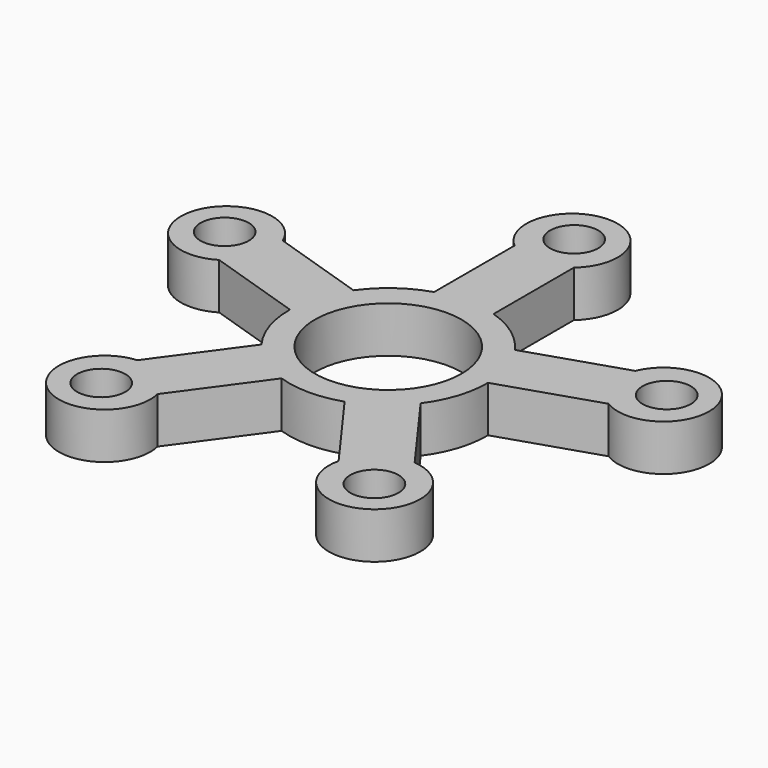
from build123d import *

# Parameters (mm, degrees)
F2_DEPTH = 7
F0_R     = 11.1
F3_DEPTH = 7.001
F4_R     = 3.652579
F5_DEPTH = 7.001


with BuildPart() as f2:
    # F1 (on Top) → F2 (new body)
    with BuildSketch(Plane.XY):
        with BuildLine():
            Line((-4.5, 29.528995), (-4.5, 14.309088))
            ThreePointArc((-4.5, 14.309088), (-8.816779, 12.135255), (-12.218175, 8.701506))
            Line((-12.218175, 8.701506), (-26.693166, 13.404716))
            ThreePointArc((-26.693166, 13.404716), (-39.661387, 12.886766), (-29.474319, 4.845207))
            Line((-29.474319, 4.845207), (-14.999328, 0.141997))
            ThreePointArc((-14.999328, 0.141997), (-14.265848, -4.635255), (-12.051247, -8.931262))
            Line((-12.051247, -8.931262), (-20.997284, -21.244425))
            ThreePointArc((-20.997284, -21.244425), (-24.512085, -33.737991), (-13.716131, -26.534492))
            Line((-13.716131, -26.534492), (-4.770094, -14.221329))
            ThreePointArc((-4.770094, -14.221329), (0, -15), (4.770094, -14.221329))
            Line((4.770094, -14.221329), (13.716131, -26.534492))
            ThreePointArc((13.716131, -26.534492), (24.512085, -33.737991), (20.997284, -21.244425))
            Line((20.997284, -21.244425), (12.051247, -8.931262))
            ThreePointArc((12.051247, -8.931262), (14.265848, -4.635255), (14.999328, 0.141997))
            Line((14.999328, 0.141997), (29.474319, 4.845207))
            ThreePointArc((29.474319, 4.845207), (39.661387, 12.886766), (26.693166, 13.404716))
            Line((26.693166, 13.404716), (12.218175, 8.701506))
            ThreePointArc((12.218175, 8.701506), (8.816779, 12.135255), (4.5, 14.309088))
            Line((4.5, 14.309088), (4.5, 29.528995))
            ThreePointArc((4.5, 29.528995), (0, 41.70245), (-4.5, 29.528995))
        make_face()
    extrude(amount=F2_DEPTH)

    # F0 (on Top) → F3 (cut, through all)
    with BuildSketch(Plane.XY):
        Circle(F0_R)
    extrude(amount=F3_DEPTH, mode=Mode.SUBTRACT)

    # F4 (on Top) → F5 (cut, through all)
    with BuildSketch(Plane.XY):
        with Locations((0, 35.191689)):
            Circle(F4_R)
        with Locations((-33.469285, 10.87483)):
            Circle(F4_R)
        with Locations((-20.685156, -28.470674)):
            Circle(F4_R)
        with Locations((20.685156, -28.470674)):
            Circle(F4_R)
        with Locations((33.469285, 10.87483)):
            Circle(F4_R)
    extrude(amount=F5_DEPTH, mode=Mode.SUBTRACT)


solid = f2.part
